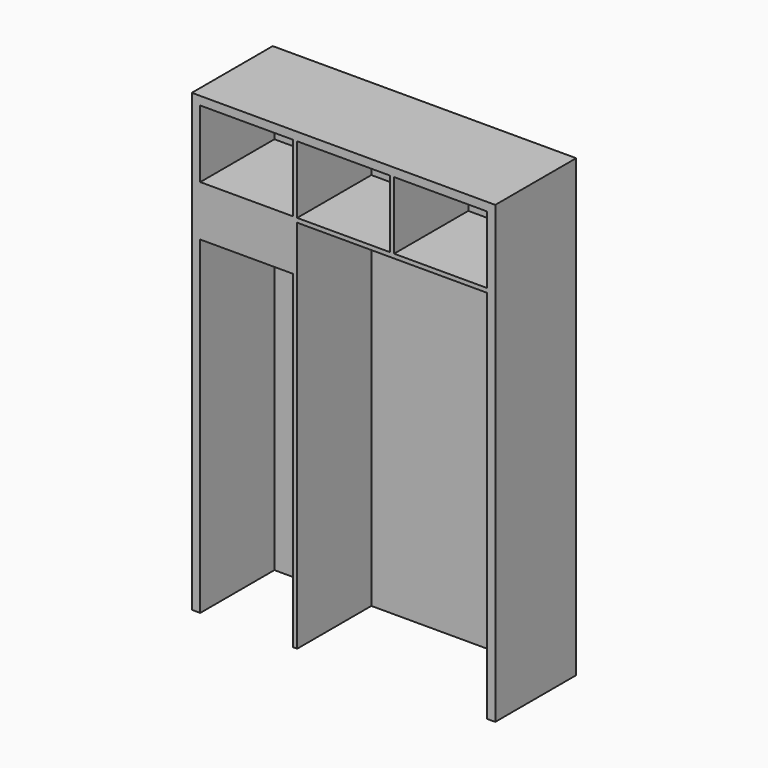
from build123d import *

# Parameters (mm, degrees)
F0_W     = 914.4
F0_H     = 1371.6
F1_DEPTH = 304.8
F2_W     = 571.5
F2_H     = 1130.3
F2_W_2   = 279.4
F2_H_2   = 990.6
F2_H_3   = 203.2
F3_DEPTH = 279.4


with BuildPart() as f1:
    # F0 (on Front) → F1 (new body)
    with BuildSketch(Plane.XZ):
        with Locations((457.2, 685.8)):
            Rectangle(F0_W, F0_H)
    extrude(amount=F1_DEPTH)

    # F2 (on face) → F3 (cut, through all)
    with BuildSketch(Plane.XZ.offset(304.8)):
        with Locations((603.25, 565.15)):
            Rectangle(F2_W, F2_H)
        with Locations((165.1, 495.3)):
            Rectangle(F2_W_2, F2_H_2)
        with Locations((165.1, 1244.6)):
            Rectangle(F2_W_2, F2_H_3)
        with Locations((457.2, 1244.6)):
            Rectangle(F2_W_2, F2_H_3)
        with Locations((749.3, 1244.6)):
            Rectangle(F2_W_2, F2_H_3)
    extrude(amount=-F3_DEPTH, mode=Mode.SUBTRACT)


solid = f1.part
